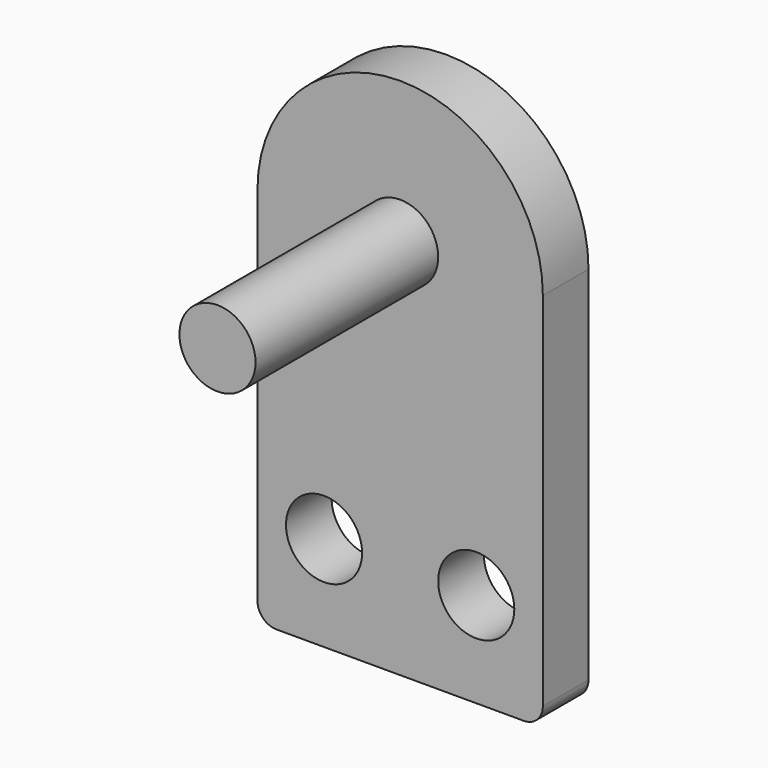
from build123d import *

# Parameters (mm, degrees)
F0_R     = 50.8
F1_DEPTH = 76.2
F2_DEPTH = 381
F3_R     = 25.4


with BuildPart() as f1:
    # F0 (on Front) → F1 (new body)
    with BuildSketch(Plane.XZ):
        with BuildLine():
            Line((-381, 0), (0, 0))
            Line((0, 0), (0, 508))
            ThreePointArc((0, 508), (-190.5, 698.5), (-381, 508))
            Line((-381, 508), (-381, 0))
        make_face()
        with Locations((-292.1, 127)):
            Circle(F0_R, mode=Mode.SUBTRACT)
        with Locations((-88.9, 127)):
            Circle(F0_R, mode=Mode.SUBTRACT)
        with Locations((-190.5, 508)):
            Circle(F0_R, mode=Mode.SUBTRACT)
    extrude(amount=F1_DEPTH)

    # F0 (on Front) → F2 (join)
    with BuildSketch(Plane.XZ):
        with Locations((-190.5, 508)):
            Circle(F0_R)
    extrude(amount=F2_DEPTH)

    # F3
    f3_edges = [f1.edges().sort_by_distance(p)[0] for p in [
        (-381, -38.1, 0),
        (0, -38.1, 0),
    ]]
    fillet(f3_edges, radius=F3_R)


solid = f1.part
